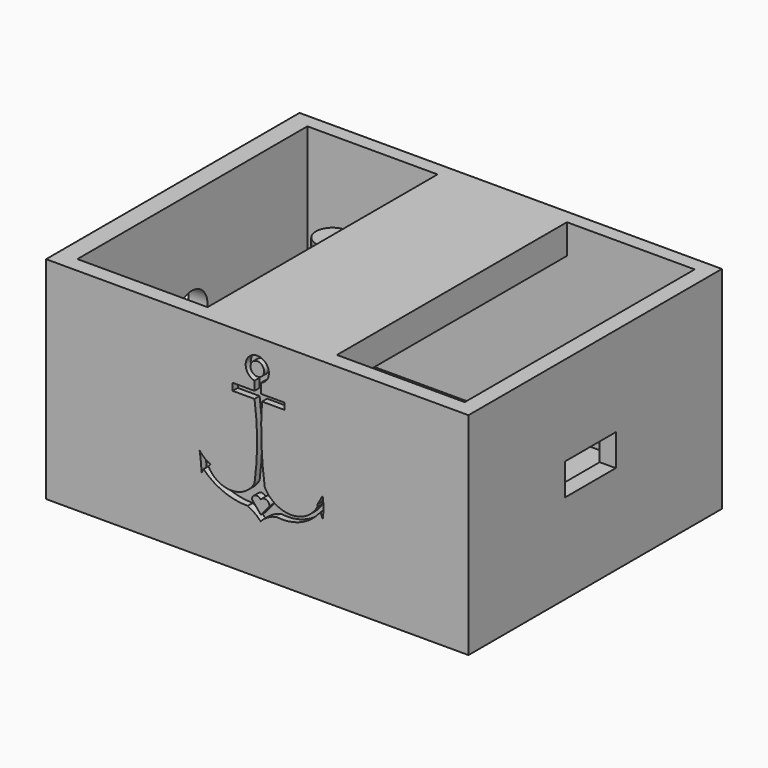
from build123d import *

# Parameters (mm, degrees)
F0_W      = 101.6
F0_H      = 50.8
F1_DEPTH  = 76.2
F2_W      = 31.3102314249
F2_H      = 69.1514285281
F2_W_2    = 30.7339653373
F3_DEPTH  = 45.72
F4_W      = 69.1514285281
F4_H      = 38.5872757655
F5_DEPTH  = 50.8
F6_W      = 15.24
F6_H      = 7.62
F7_DEPTH  = 10.16
F8_R      = 4.7199680321
F9_DEPTH  = 12.7
F10_R     = 1.635365768
F11_DEPTH = 1.524
F13_DEPTH = 1.524
F14_R     = 4.0060593356
F14_R_2   = 3.939714961
F15_DEPTH = 35.56


with BuildPart() as f1:
    # F0 (on Front) → F1 (new body)
    with BuildSketch(Plane.XZ):
        Rectangle(F0_W, F0_H)
    extrude(amount=-F1_DEPTH)

    # F2 (on face) → F3 (cut)
    with BuildSketch(Plane.XY.offset(25.4)):
        with Locations((-30.5790114217, 38.2802202366)):
            Rectangle(F2_W, F2_H)
        with Locations((31.561229378, 38.2802202366)):
            Rectangle(F2_W_2, F2_H)
    extrude(amount=-F3_DEPTH, mode=Mode.SUBTRACT)

    # F4 (on face) → F5 (cut)
    with BuildSketch(Plane(origin=(-14.9238957092, 0, 0), x_dir=(0, -1, 0), z_dir=(-1, 0, 0))):
        with Locations((-38.2802202366, -1.0263621172)):
            Rectangle(F4_W, F4_H)
    extrude(amount=-F5_DEPTH, mode=Mode.SUBTRACT)

    # F6 (on face) → F7 (cut)
    with BuildSketch(Plane.YZ.offset(50.8)):
        with Locations((36.6688001752, 0)):
            Rectangle(F6_W, F6_H)
    extrude(amount=-F7_DEPTH, mode=Mode.SUBTRACT)

    # F8 (on face) → F9 (cut)
    with BuildSketch(Plane(origin=(-50.8, 0, 0), x_dir=(0, -1, 0), z_dir=(-1, 0, 0))):
        with Locations((-38.1, 0)):
            Circle(F8_R)
    extrude(amount=-F9_DEPTH, mode=Mode.SUBTRACT)

    # F10 (on face) → F11 (cut)
    with BuildSketch(Plane.XZ):
        with BuildLine():
            ThreePointArc((0.8688539046, 16.0308553601), (2.2642224031, 17.0473777803), (2.7970019822, 18.6894852668))
            ThreePointArc((2.7970019822, 18.6894852668), (-1.728877271, 20.8881674789), (-0.6597016604, 15.9713951639))
            ThreePointArc((-0.6597016604, 15.9713951639), (0.108720026, 15.8945970679), (0.8688539046, 16.0308553601))
        make_face()
        with Locations((0, 18.6894852668)):
            Circle(F10_R, mode=Mode.SUBTRACT)
        with BuildLine():
            ThreePointArc((0.8688539046, 16.0308553601), (0.108720026, 15.8945970679), (-0.6597016604, 15.9713951639))
            Line((-0.6597016604, 15.9713951639), (-0.6597016604, 13.8239324768))
            Line((-0.6597016604, 13.8239324768), (-5.9159405627, 13.8239324768))
            Line((-5.9159405627, 13.8239324768), (-5.9159405627, 12.1085410579))
            Line((-5.9159405627, 12.1085410579), (-0.6597016604, 12.1085410579))
            ThreePointArc((-0.6597016604, 12.1085410579), (-0.0288400906, 3.1830218907), (-0.6597016604, -5.7424972765))
            ThreePointArc((-0.6597016604, -5.7424972765), (-6.2171832026, -9.0842868218), (-11.7746647447, -5.7424972765))
            Line((-11.7746647447, -5.7424972765), (-11.2480353564, -5.2158674225))
            ThreePointArc((-11.2480353564, -5.2158674225), (-12.6984808292, -4.2995334354), (-13.8811841607, -3.0566847418))
            ThreePointArc((-13.8811841607, -3.0566847418), (-13.5599978183, -5.3916725495), (-13.4072173387, -7.7436901629))
            Line((-13.4072173387, -7.7436901629), (-12.9332505167, -6.7430939525))
            ThreePointArc((-12.9332505167, -6.7430939525), (-8.0485977202, -9.9721592901), (-2.29532714, -11.0614588484))
            ThreePointArc((-2.29532714, -11.0614588484), (-0.6373782355, -12.0504785864), (0.8117884863, -13.3259668946))
            ThreePointArc((0.8117884863, -13.3259668946), (2.5191788748, -11.9655868759), (4.5508607291, -11.1667849123))
            ThreePointArc((4.5508607291, -11.1667849123), (10.5097684759, -10.3506913543), (15.2414478362, -6.6377678886))
            Line((15.2414478362, -6.6377678886), (15.7154146582, -8.112330921))
            ThreePointArc((15.7154146582, -8.112330921), (15.9275295852, -5.5845078314), (15.7154146582, -3.0566847418))
            ThreePointArc((15.7154146582, -3.0566847418), (15.0946685939, -4.1951955449), (14.4515028223, -5.3211930208))
            Line((14.4515028223, -5.3211930208), (14.4515028223, -5.8478228748))
            ThreePointArc((14.4515028223, -5.8478228748), (8.131944458, -9.5855520976), (1.8123860937, -5.8478228748))
            ThreePointArc((1.8123860937, -5.8478228748), (0.996836842, 3.1265252312), (1.1337217875, 12.1368141845))
            Line((1.1337217875, 12.1368141845), (6.5465644002, 12.1368141845))
            Line((6.5465644002, 12.1368141845), (6.5465644002, 13.683338151))
            Line((6.5465644002, 13.683338151), (0.8688539046, 13.683338151))
            Line((0.8688539046, 13.683338151), (0.8688539046, 16.0308553601))
        make_face()
        with BuildLine():
            ThreePointArc((0.8117884863, -8.7442873046), (2.1252827801, -8.2858759495), (2.9183086008, -9.4289062545))
            Line((2.9183086008, -9.4289062545), (0.8644514601, -11.9567289948))
            Line((0.8644514601, -11.9567289948), (-1.2947305804, -9.3235801905))
            ThreePointArc((-1.2947305804, -9.3235801905), (-0.4584292651, -8.2449949671), (0.8117884863, -8.7442873046))
        make_face(mode=Mode.SUBTRACT)
    extrude(amount=-F11_DEPTH, mode=Mode.SUBTRACT)

    # F12 (on face) → F13 (cut)
    with BuildSketch(Plane(origin=(0, 76.2, 0), x_dir=(-1, 0, 0), z_dir=(0, 1, 0))):
        with BuildLine():
            Line((14.2345046625, 20.9841318429), (0, 3.4671491012))
            Line((0, 3.4671491012), (-13.7768853456, 20.7474157214))
            Line((-13.7768853456, 20.7474157214), (-15.1745732773, 19.6330934249))
            Line((-15.1745732773, 19.6330934249), (-1.1224173427, 2.0075565166))
            Line((-1.1224173427, 2.0075565166), (-11.2962679055, -10.512384918))
            ThreePointArc((-11.2962679055, -10.512384918), (-16.9222450094, -10.615651057), (-22.3775655031, -9.2366077006))
            ThreePointArc((-22.3775655031, -9.2366077006), (-24.377281906, -10.3599397452), (-23.4822407365, -12.4717261642))
            ThreePointArc((-23.4822407365, -12.4717261642), (-18.0084948263, -14.6788471986), (-12.1198734269, -15.0756035))
            Line((-12.1198734269, -15.0756035), (0, 0))
            Line((0, 0), (12.4196829274, -15.2334133163))
            ThreePointArc((12.4196829274, -15.2334133163), (17.9436167829, -14.9653793634), (23.2297126204, -13.3396862075))
            ThreePointArc((23.2297126204, -13.3396862075), (24.9682567409, -11.1020125383), (22.835187614, -9.2366077006))
            ThreePointArc((22.835187614, -9.2366077006), (17.49741351, -10.7969617685), (11.9462516159, -11.1303366721))
            Line((11.9462516159, -11.1303366721), (1.0416547929, 2.0300080541))
            Line((1.0416547929, 2.0300080541), (15.5652534262, 19.9027498628))
            Line((15.5652534262, 19.9027498628), (14.2345046625, 20.9841318429))
        make_face()
    extrude(amount=-F13_DEPTH, mode=Mode.SUBTRACT)

    # F14 (on face) → F15 (join)
    with BuildSketch(Plane.XY.offset(-20.32)):
        with Locations((-26.4782663435, 55.7343438268)):
            Circle(F14_R)
        with Locations((26.2298732996, 13.9785446227)):
            Circle(F14_R_2)
    extrude(amount=F15_DEPTH)


solid = f1.part
